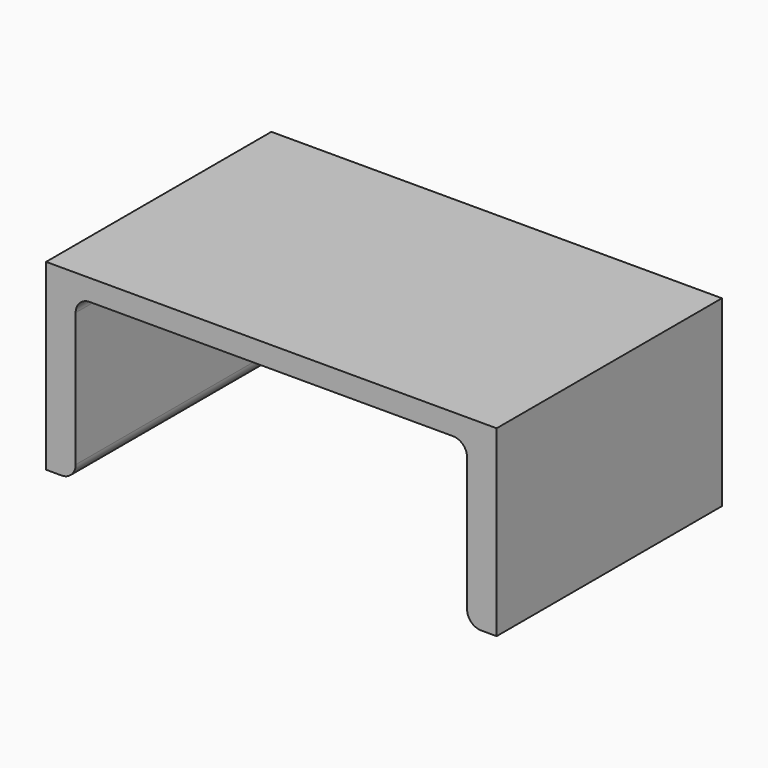
from build123d import *

# Parameters (mm, degrees)
F1_DEPTH = 100


with BuildPart() as f1:
    # F0 (on Front) → F1 (new body)
    with BuildSketch(Plane.XZ):
        with BuildLine():
            Line((131.273671, 32.343587), (-28.726329, 32.343587))
            Line((-28.726329, 32.343587), (-28.726329, -32.656413))
            Line((-28.726329, -32.656413), (-23.226329, -32.656413))
            ThreePointArc((-23.226329, -32.656413), (-19.690795, -31.191946), (-18.226329, -27.656413))
            Line((-18.226329, -27.656413), (-18.226329, 19.843587))
            ThreePointArc((-18.226329, 19.843587), (-16.761863, 23.379121), (-13.226329, 24.843587))
            Line((-13.226329, 24.843587), (115.773671, 24.843587))
            ThreePointArc((115.773671, 24.843587), (119.309205, 23.379121), (120.773671, 19.843587))
            Line((120.773671, 19.843587), (120.773671, -27.656413))
            ThreePointArc((120.773671, -27.656413), (122.238137, -31.191946), (125.773671, -32.656413))
            Line((125.773671, -32.656413), (131.273671, -32.656413))
            Line((131.273671, -32.656413), (131.273671, 32.343587))
        make_face()
    extrude(amount=F1_DEPTH)


solid = f1.part
